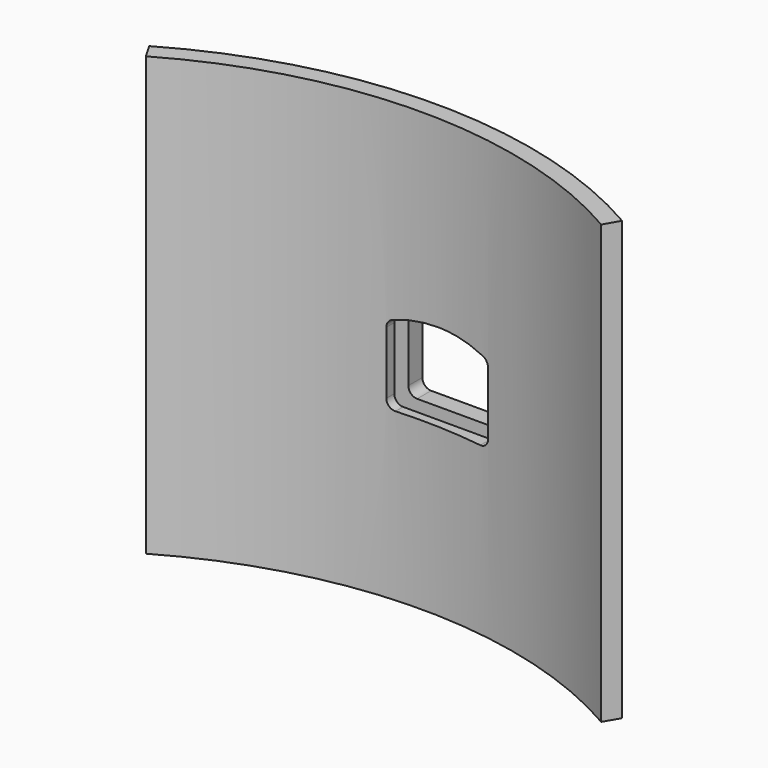
from build123d import *

# Parameters (mm, degrees)
BOX002_W                    = 20
BOX002_H                    = 2
BOX002_DEPTH                = 40
EXTRUDE_DEPTH               = 6
EXTRUDE001_DEPTH            = 6
THICKNESS_T                 = 1
BOX001_W                    = 20
BOX001_H                    = 4
BOX001_DEPTH                = 45
CYLINDER001_W               = 52
CYLINDER001_H               = 50
CYLINDER001_ANGLE           = 60
CYLINDER001_PLACEMENT_ANGLE = 60
CYLINDER_W                  = 54
CYLINDER_H                  = 50
CYLINDER_ANGLE              = 60
CYLINDER_PLACEMENT_ANGLE    = 60


with BuildPart() as slot:
    # Box002 → Box002 (new body)
    with BuildSketch(Plane(origin=(2, 44, 2.5), x_dir=(1, 0, 0), z_dir=(0, 0, 1))):
        with Locations((10, 1)):
            Rectangle(BOX002_W, BOX002_H)
    extrude(amount=BOX002_DEPTH)


with BuildPart() as extrude_body:
    with BuildSketch(Plane(origin=(8.5, 45, 6), x_dir=(1, 0, 0), z_dir=(0, 1, 0))):
        with BuildLine():
            Line((5, 4), (-5, 4))
            Line((-5, 4), (-5, -3.142136))
            ThreePointArc((-5, -3.142136), (-2.53653, -3.783978), (0, -4))
            ThreePointArc((0, -4), (2.53653, -3.783978), (5, -3.142136))
            Line((5, -3.142136), (5, 4))
        make_face()
    extrude(amount=EXTRUDE_DEPTH)


with BuildPart() as extrude001:
    with BuildSketch(Plane(origin=(8.5, 45, 6), x_dir=(1, 0, 0), z_dir=(0, 1, 0))):
        with BuildLine():
            Line((5, 4), (-5, 4))
            Line((-5, 4), (-5, -3.142136))
            ThreePointArc((-5, -3.142136), (-2.53653, -3.783978), (0, -4))
            ThreePointArc((0, -4), (2.53653, -3.783978), (5, -3.142136))
            Line((5, -3.142136), (5, 4))
        make_face()
    extrude(amount=EXTRUDE001_DEPTH)


with BuildPart() as pin_opening:
    # Thickness base: copy of Extrude body
    add(extrude_body.part)

    # Thickness
    thickness_openings = [pin_opening.faces().sort_by_distance(p)[0] for p in [
        (8.5, 51, 5.862901),
    ]]
    offset(amount=THICKNESS_T, openings=thickness_openings)

    # Fusion002: union Extrude body, Extrude001
    add(extrude_body.part)
    add(extrude001.part)


with BuildPart() as pin_opening_1:
    # Fusion002 placement: moved
    add(pin_opening.part.moved(Location((2, -3, 18))))


with BuildPart() as latch:
    # Box001 → Box001 (new body)
    with BuildSketch(Plane(origin=(0, 44, 0), x_dir=(1, 0, 0), z_dir=(0, 0, 1))):
        with Locations((10, 2)):
            Rectangle(BOX001_W, BOX001_H)
    extrude(amount=BOX001_DEPTH)


with BuildPart() as bottle_wall001:
    # Cylinder001 → Cylinder001 (revolve)
    with BuildSketch(Plane.XZ):
        with Locations((26, 25)):
            Rectangle(CYLINDER001_W, CYLINDER001_H)
    revolve(axis=Axis((0, 0, 0), (0, 0, 1)), revolution_arc=CYLINDER001_ANGLE)


with BuildPart() as bottle_wall001_1:
    # Cylinder001 placement: moved
    add(bottle_wall001.part.moved(Location((8.5, -7, 0))).rotate(Axis((8.5, -7, 0), (0, 0, 1)), CYLINDER001_PLACEMENT_ANGLE))


with BuildPart() as cut004:
    # Cylinder → Cylinder (revolve)
    with BuildSketch(Plane.XZ):
        with Locations((27, 25)):
            Rectangle(CYLINDER_W, CYLINDER_H)
    revolve(axis=Axis((0, 0, 0), (0, 0, 1)), revolution_arc=CYLINDER_ANGLE)


with BuildPart() as cut004_1:
    # Cylinder placement: moved
    add(cut004.part.moved(Location((8.5, -7, 0))).rotate(Axis((8.5, -7, 0), (0, 0, 1)), CYLINDER_PLACEMENT_ANGLE))

    # Cut: cut bottle_wall001
    add(bottle_wall001_1.part, mode=Mode.SUBTRACT)


with BuildPart() as cut004_2:
    # Cut placement: moved
    add(cut004_1.part.moved(Location((0, -2, 0))))

    # Fusion: union latch
    add(latch.part)

    # Fusion001: union latch
    add(latch.part)

    # Cut003: cut pin opening
    add(pin_opening_1.part, mode=Mode.SUBTRACT)

    # Cut004: cut slot
    add(slot.part, mode=Mode.SUBTRACT)


solid = cut004_2.part
